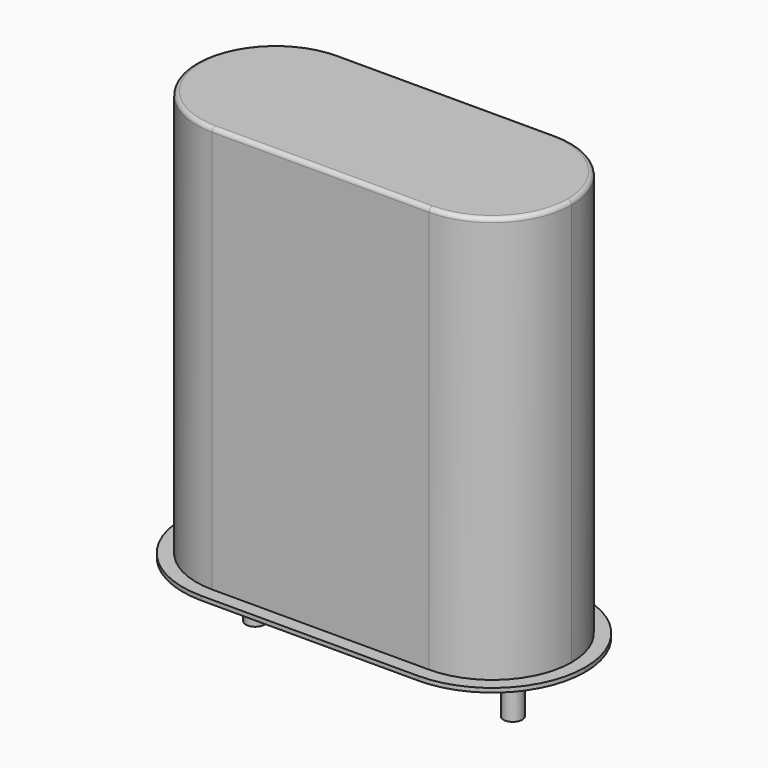
from build123d import *

# Parameters (mm, degrees)
SKETCH_R     = 0.45
PAD_DEPTH    = 3
PAD001_DEPTH = 0.2
PAD002_DEPTH = 19.7
FILLET_R     = 0.2


with BuildPart() as pad:
    # Sketch → Pad (new body)
    with BuildSketch(Plane.XY.offset(0.1)):
        Circle(SKETCH_R)
        with Locations((12.35, 0)):
            Circle(SKETCH_R)
    extrude(amount=-PAD_DEPTH)


with BuildPart() as pad001:
    # Sketch001 → Pad001 (new body)
    with BuildSketch(Plane.XY.offset(0.1)):
        with BuildLine():
            Line((0.975, 4.45), (11.375, 4.45))
            ThreePointArc((15.825, 0), (14.521625, 3.146625), (11.375, 4.45))
            ThreePointArc((11.375, -4.45), (14.521625, -3.146625), (15.825, 0))
            Line((11.375, -4.45), (0.975, -4.45))
            ThreePointArc((-3.475, 0), (-2.171625, -3.146625), (0.975, -4.45))
            ThreePointArc((0.975, 4.45), (-2.171625, 3.146625), (-3.475, 0))
        make_face()
    extrude(amount=PAD001_DEPTH)


with BuildPart() as fillet_body:
    # Sketch003 → Pad002 (new body)
    with BuildSketch(Plane.XY.offset(0.1)):
        with BuildLine():
            Line((0.975, 3.8), (11.375, 3.8))
            ThreePointArc((15.175, 0), (14.062006, 2.687006), (11.375, 3.8))
            ThreePointArc((11.375, -3.8), (14.062006, -2.687006), (15.175, 0))
            Line((11.375, -3.8), (0.975, -3.8))
            ThreePointArc((-2.825, 0), (-1.712006, -2.687006), (0.975, -3.8))
            ThreePointArc((0.975, 3.8), (-1.712006, 2.687006), (-2.825, 0))
        make_face()
    extrude(amount=PAD002_DEPTH)

    # Fillet
    fillet_edges = [fillet_body.edges().sort_by_distance(p)[0] for p in [
        (6.175, 3.8, 19.8),
        (-1.712006, 2.687006, 19.8),
        (-1.712006, -2.687006, 19.8),
        (6.175, -3.8, 19.8),
        (14.062006, -2.687006, 19.8),
        (14.062006, 2.687006, 19.8),
    ]]
    fillet(fillet_edges, radius=FILLET_R)


solid = Compound([pad.part, pad001.part, fillet_body.part])
